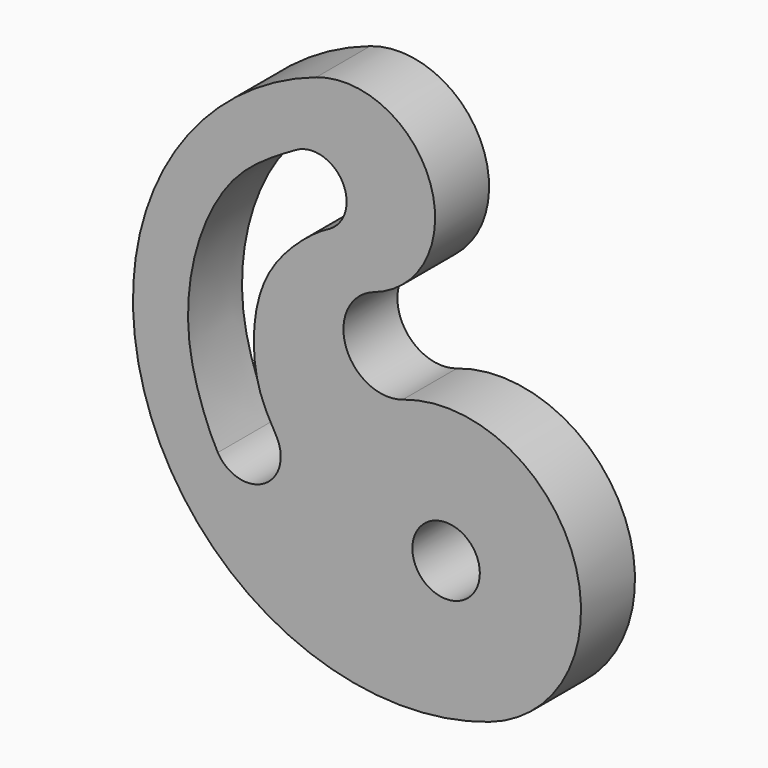
from build123d import *

# Parameters (mm, degrees)
F0_R     = 190.5
F1_DEPTH = 381


with BuildPart() as f1:
    # F0 (on Front) → F1 (new body)
    with BuildSketch(Plane.XZ):
        with BuildLine():
            ThreePointArc((325.719370356, -962.3735718394), (3.6961348071, -803.2100214685), (162.859685178, -481.1867859197))
            ThreePointArc((162.859685178, -481.1867859197), (481.1867859197, 162.859685178), (-162.859685178, 481.1867859197))
            ThreePointArc((-162.859685178, 481.1867859197), (-1117.8409874031, -1450.9526273733), (814.2984258899, -2405.9339295985))
            ThreePointArc((814.2984258899, -2405.9339295985), (1291.7890770025, -1439.864222952), (325.719370356, -962.3735718394))
        make_face()
        with Locations((570.0088981229, -1684.1537507189)):
            Circle(F0_R, mode=Mode.SUBTRACT)
        with BuildLine():
            Line((-87.030629644, -247.4696010154), (-86.8760860534, -247.7372783663))
            add(Edge.make_bspline(
                [(-94.9094377488, -251.7741435094), (-92.2028370971, -250.3771940912), (-89.5243680445, -249.0310788628), (-86.8760860534, -247.7372783663)],
                knots=[0.9917912061, 0.9917912061, 0.9917912061, 0.9917912061, 1, 1, 1, 1], degree=3))
            add(Edge.make_bspline(
                [(-389.1846004681, -1375.1235718394), (-428.1801974237, -1307.5812166409), (-515.3894424096, -1153.7490842148), (-526.914571938, -791.5365431384), (-406.4471885857, -484.7421461487), (-180.5737375538, -295.9877934602), (-94.9094377488, -251.7741435094)],
                knots=[0, 0, 0, 0, 0.2181948222, 0.476316042, 0.7319816992, 0.9917912061, 0.9917912061, 0.9917912061, 0.9917912061], degree=3))
            ThreePointArc((-389.1846004681, -1375.1235718394), (-458.912439889, -1635.3514112603), (-719.14027931, -1565.6235718394))
            add(Edge.make_bspline(
                [(-719.14027931, -1565.6235718394), (-748.2886752208, -1515.1370691627), (-803.4613477969, -1387.5388500853), (-904.8214060624, -1069.14227852), (-876.6759454634, -604.2402706478), (-650.8800264343, -132.1597502616), (-395.0060096608, 14.6616355507), (-277.530629644, 82.4860778265)],
                knots=[0, 0, 0, 0, 0.1428413796, 0.3302786316, 0.5545765899, 0.7879200788, 1, 1, 1, 1], degree=3))
            ThreePointArc((-277.530629644, 82.4860778265), (-124.3949905718, 99.000670174), (-9.0997030514, -3.1279369353))
            ThreePointArc((-9.0997030514, -3.1279369353), (-0.7881978757, -140.3774006667), (-87.030629644, -247.4696010154))
        make_face(mode=Mode.SUBTRACT)
    extrude(amount=F1_DEPTH)


solid = f1.part
